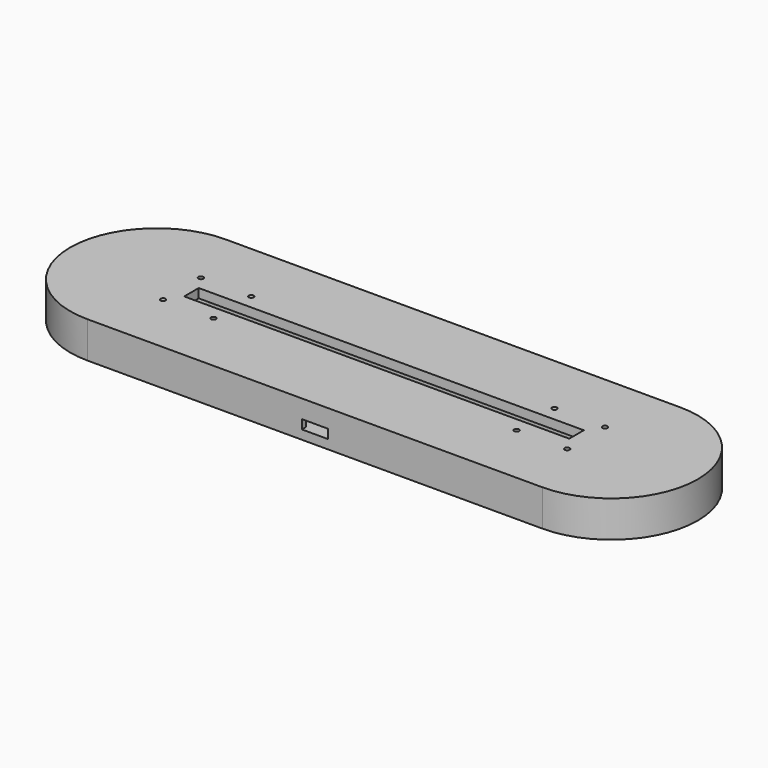
from build123d import *

# Parameters (mm, degrees)
PAD_DEPTH             = 6
POCKET_DEPTH          = 3
SKETCH002_W           = 18.4
SKETCH002_H           = 20.85
POCKET001_DEPTH       = 3
SKETCH003_W           = 8.55
SKETCH003_H           = 1.65
POCKET002_DEPTH       = 3
PAD001_DEPTH          = 3
SKETCH005_W           = 127
SKETCH005_H           = 6
PAD002_DEPTH          = 3
SKETCH006_R           = 0.825
POCKET003_DEPTH       = 442.080062
POLARPATTERN_COUNT    = 2
POLARPATTERN001_COUNT = 2
POLARPATTERN002_COUNT = 2


with BuildPart() as part:
    # Sketch → Pad (new body)
    with BuildSketch(Plane.XY):
        with BuildLine():
            ThreePointArc((-75, 28.5), (-103.5, 0), (-75, -28.5))
            Line((-75, -28.5), (75, -28.5))
            ThreePointArc((75, -28.5), (103.5, 0), (75, 28.5))
            Line((-75, 28.5), (75, 28.5))
        make_face()
    extrude(amount=PAD_DEPTH)

    # Sketch001 (on Face6 of Pad) → Pocket (cut)
    with BuildSketch(Plane.XY.offset(6)):
        with BuildLine():
            ThreePointArc((-62.5, 6), (-68.5, 0), (-62.5, -6))
            Line((-62.5, -6), (62.5, -6))
            ThreePointArc((62.5, -6), (68.5, 0), (62.5, 6))
            Line((-62.5, 6), (62.5, 6))
        make_face()
    extrude(amount=-POCKET_DEPTH, mode=Mode.SUBTRACT)

    # Sketch002 (on Face5 of Pocket) → Pocket001 (cut)
    with BuildSketch(Plane.XY.offset(6)):
        with Locations((0, -16.425)):
            Rectangle(SKETCH002_W, SKETCH002_H)
    extrude(amount=-POCKET001_DEPTH, mode=Mode.SUBTRACT)

    # Sketch003 (on Face5 of Pocket001) → Pocket002 (cut)
    with BuildSketch(Plane.XY.offset(6)):
        with Locations((0, -27.675)):
            Rectangle(SKETCH003_W, SKETCH003_H)
    extrude(amount=-POCKET002_DEPTH, mode=Mode.SUBTRACT)

    # Sketch004 (on Face5 of Pocket002) → Pad001 (join)
    with BuildSketch(Plane.XY.offset(6)):
        with BuildLine():
            ThreePointArc((-75, 28.5), (-103.5, 0), (-75, -28.5))
            Line((-75, -28.5), (75, -28.5))
            ThreePointArc((75, -28.5), (103.5, 0), (75, 28.5))
            Line((-75, 28.5), (75, 28.5))
        make_face()
        with BuildLine():
            ThreePointArc((-62.5, 6), (-68.5, 0), (-62.5, -6))
            Line((-62.5, -6), (62.5, -6))
            ThreePointArc((62.5, -6), (68.5, 0), (62.5, 6))
            Line((-62.5, 6), (62.5, 6))
        make_face(mode=Mode.SUBTRACT)
    extrude(amount=PAD001_DEPTH)

    # Sketch005 (on Face12 of Pad001) → Pad002 (join)
    with BuildSketch(Plane.XY.offset(9)):
        with BuildLine():
            ThreePointArc((-75, 28.5), (-103.5, 0), (-75, -28.5))
            Line((-75, -28.5), (75, -28.5))
            ThreePointArc((75, -28.5), (103.5, 0), (75, 28.5))
            Line((-75, 28.5), (75, 28.5))
        make_face()
        Rectangle(SKETCH005_W, SKETCH005_H, mode=Mode.SUBTRACT)
    extrude(amount=PAD002_DEPTH)

    # Sketch006 (on Face20 of Pad002) → Pocket003 (cut, through all)
    with BuildSketch(Plane.XY.offset(12)):
        with Locations((-66.64, -7.79)):
            Circle(SKETCH006_R)
        with Locations((-50, -7.79)):
            Circle(SKETCH006_R)
    pocket003 = extrude(amount=-POCKET003_DEPTH, mode=Mode.SUBTRACT)

    # PolarPattern: Pocket003 ×2 about axis
    polarpattern_axis = Axis((0, 0, 12), (0, 0, 1))
    for i in range(1, POLARPATTERN_COUNT):
        add(pocket003.rotate(polarpattern_axis, i * 360 / POLARPATTERN_COUNT), mode=Mode.SUBTRACT)

    # PolarPattern001: Pocket003 ×2 about axis
    polarpattern001_axis = Axis((0, 0, 0), (0, 1, 0))
    for i in range(1, POLARPATTERN001_COUNT):
        add(pocket003.rotate(polarpattern001_axis, i * 360 / POLARPATTERN001_COUNT), mode=Mode.SUBTRACT)

    # PolarPattern002: Pocket003 ×2 about axis
    polarpattern002_axis = Axis((0, 0, 0), (-1, 0, 0))
    for i in range(1, POLARPATTERN002_COUNT):
        add(pocket003.rotate(polarpattern002_axis, i * 360 / POLARPATTERN002_COUNT), mode=Mode.SUBTRACT)


solid = part.part
